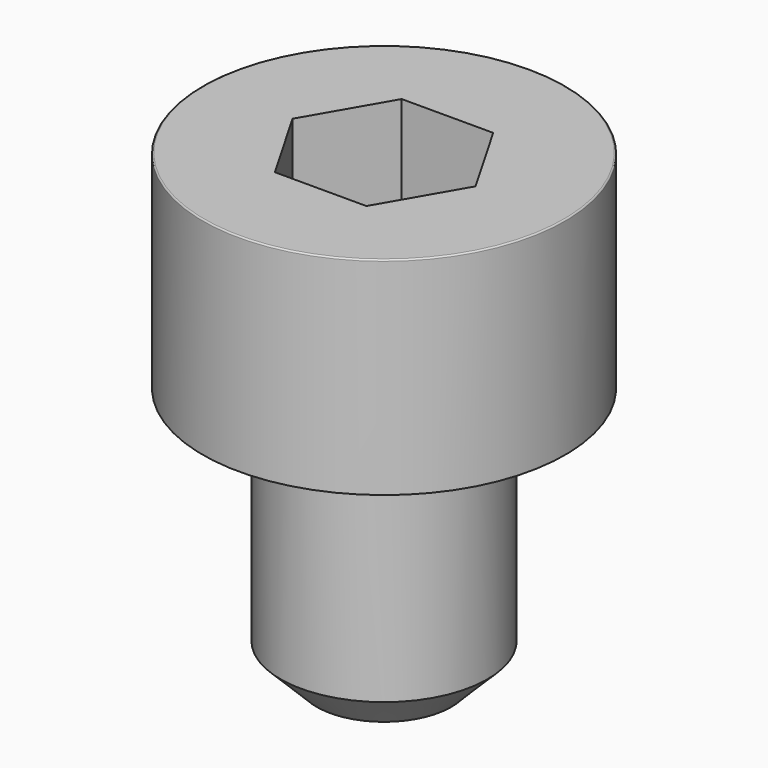
from build123d import *

# Parameters (mm, degrees)
POCKET_DEPTH = 3.06


with BuildPart() as part:
    # Sketch → Revolve (revolve)
    with BuildSketch(Plane.YZ):
        with BuildLine():
            Line((1.999, 0), (3.5, 0))
            Line((3.5, 0), (3.5, 3.97229))
            ThreePointArc((3.5, 3.97229), (3.491884, 3.991884), (3.47229, 4))
            Line((3.47229, 4), (0, 4))
            Line((0, -5), (0, 4))
            Line((1.3, -5), (0, -5))
            Line((2, -4.3), (1.3, -5))
            Line((2, -0.2), (2, -4.3))
            Line((1.999, 0), (2, -0.2))
        make_face()
    revolve(axis=Axis((0, 0, 0), (0, 0, 1)))

    # Sketch001 → Pocket (cut)
    with BuildSketch(Plane.XY.offset(4)):
        Polygon((1.766692, 0), (0.883346, 1.53), (-0.883346, 1.53), (-1.766692, 0), (-0.883346, -1.53), (0.883346, -1.53), align=None)
    extrude(amount=-POCKET_DEPTH, mode=Mode.SUBTRACT)


solid = part.part
